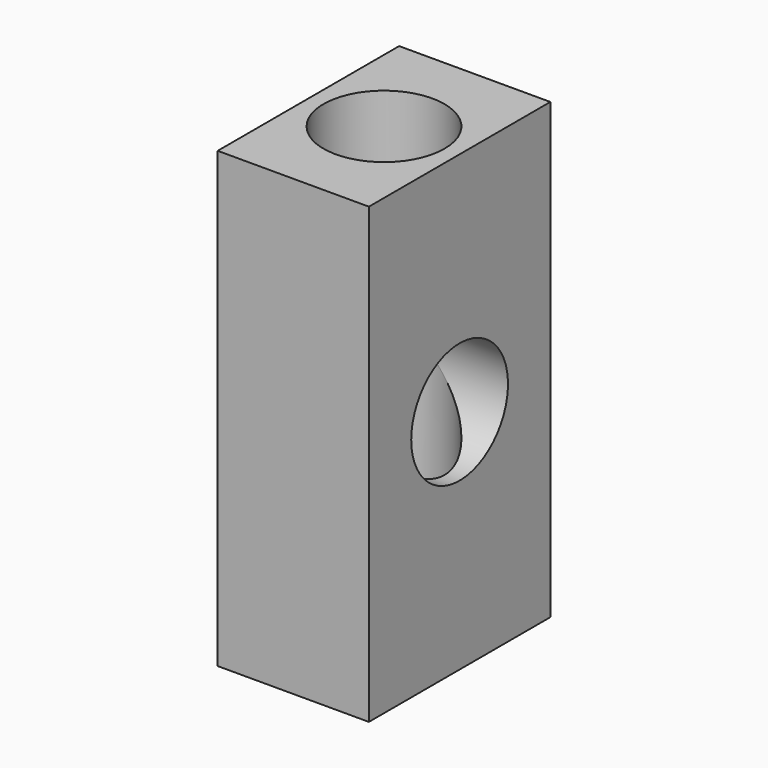
from build123d import *

# Parameters (mm, degrees)
F0_W     = 25.4
F0_H     = 38.1
F0_R     = 10.16
F1_DEPTH = 76.2
F2_R     = 10.16
F3_DEPTH = 25.401


with BuildPart() as f1:
    # F0 (on Top) → F1 (new body)
    with BuildSketch(Plane.XY):
        with Locations((-12.7, 19.05)):
            Rectangle(F0_W, F0_H)
        with Locations((-12.7, 19.05)):
            Circle(F0_R, mode=Mode.SUBTRACT)
    extrude(amount=F1_DEPTH)

    # F2 (on face) → F3 (cut, through all)
    with BuildSketch(Plane(origin=(-25.4, 0, 0), x_dir=(0, -1, 0), z_dir=(-1, 0, 0))):
        with Locations((-19.05, 38.1)):
            Circle(F2_R)
    extrude(amount=-F3_DEPTH, mode=Mode.SUBTRACT)


solid = f1.part
